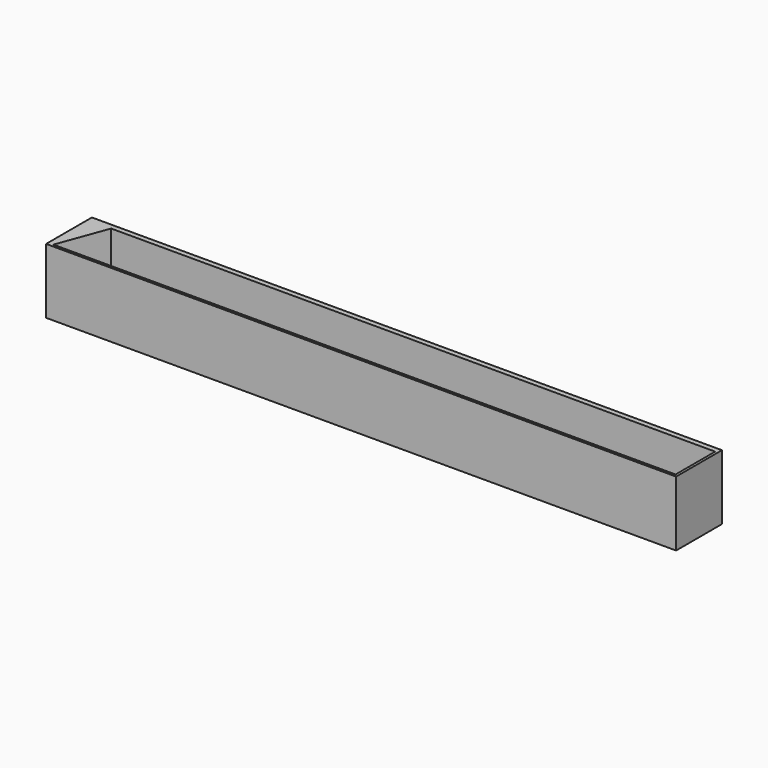
from build123d import *

# Parameters (mm, degrees)
F0_W     = 242
F0_H     = 22
F1_DEPTH = 25


with BuildPart() as f1:
    # F0 (on Top) → F1 (new body)
    with BuildSketch(Plane.XY):
        Rectangle(F0_W, F0_H)
        Polygon((-120, 9), (-120, 10), (120, 10), (120, 9), (120, -10), (-119, -10), (-120, -10), align=None, mode=Mode.SUBTRACT)
        Polygon((120, 10), (-120, 10), (-120, 9), (-112, 9), (-86.460605, 9), (120, 9), align=None)
        Polygon((-112, 9), (-120, 9), (-120, -10), (-119, -10), align=None)
    extrude(amount=F1_DEPTH)


solid = f1.part
